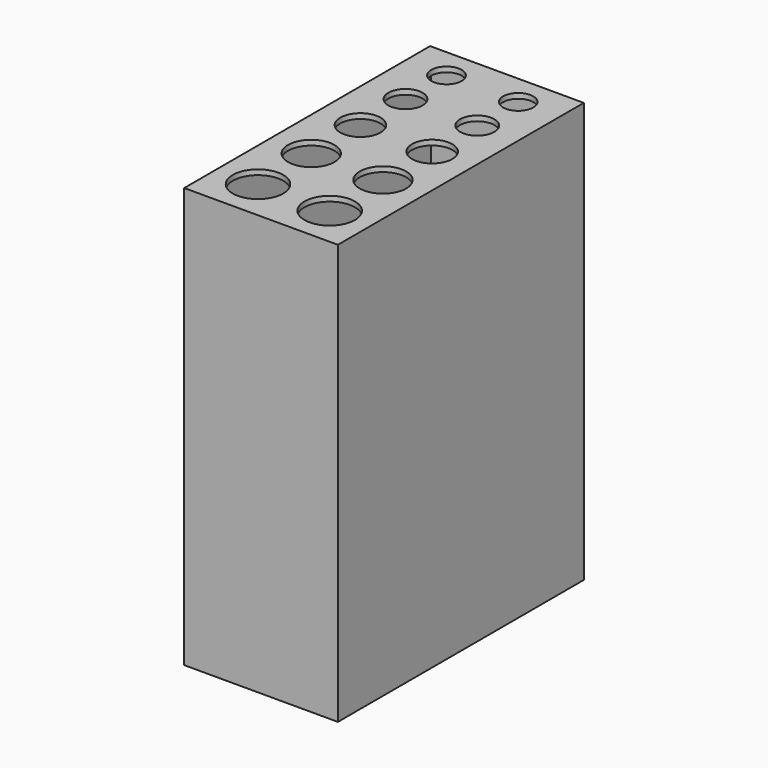
from build123d import *

# Parameters (mm, degrees)
F0_W     = 38.1
F0_H     = 76.2
F1_DEPTH = 1.27
F2_W     = 1.27
F2_H     = 1.27
F2_W_2   = 35.56
F2_H_2   = 73.66
F3_DEPTH = 101.6
F4_W     = 38.1
F4_H     = 76.2
F5_DEPTH = 1.27
F7_R     = 3.75
F7_R_2   = 4.25
F7_R_3   = 5
F7_R_4   = 5.75
F7_R_5   = 6.25
F8_DEPTH = 25.4


with BuildPart() as f1:
    # F0 (on Top) → F1 (new body)
    with BuildSketch(Plane.XY):
        Rectangle(F0_W, F0_H)
    extrude(amount=F1_DEPTH)

    # F2 (on face) → F3 (join)
    with BuildSketch(Plane.XY.offset(1.27)):
        with Locations((-18.415, 37.465)):
            Rectangle(F2_W, F2_H)
        with Locations((0, 37.465)):
            Rectangle(F2_W_2, F2_H)
        with Locations((-18.415, 0)):
            Rectangle(F2_W, F2_H_2)
        with Locations((18.415, 37.465)):
            Rectangle(F2_W, F2_H)
        with Locations((-18.415, -37.465)):
            Rectangle(F2_W, F2_H)
        with Locations((0, -37.465)):
            Rectangle(F2_W_2, F2_H)
        with Locations((18.415, 0)):
            Rectangle(F2_W, F2_H_2)
        with Locations((18.415, -37.465)):
            Rectangle(F2_W, F2_H)
    extrude(amount=F3_DEPTH)

    # F4 (on face) → F5 (join)
    with BuildSketch(Plane.XY.offset(102.87)):
        Rectangle(F4_W, F4_H)
    extrude(amount=F5_DEPTH)

    # F7 (on face) → F8 (cut)
    with BuildSketch(Plane.XY.offset(104.14)):
        with Locations((-8.89, 30.48)):
            Circle(F7_R)
        with Locations((8.89, 30.48)):
            Circle(F7_R)
        with Locations((-8.89, 17.78)):
            Circle(F7_R_2)
        with Locations((8.89, 17.78)):
            Circle(F7_R_2)
        with Locations((8.89, 3.81)):
            Circle(F7_R_3)
        with Locations((-8.89, 3.81)):
            Circle(F7_R_3)
        with Locations((-8.89, -11.43)):
            Circle(F7_R_4)
        with Locations((8.89, -11.43)):
            Circle(F7_R_4)
        with Locations((8.89, -27.94)):
            Circle(F7_R_5)
        with Locations((-8.89, -27.94)):
            Circle(F7_R_5)
    extrude(amount=-F8_DEPTH, mode=Mode.SUBTRACT)


solid = f1.part
